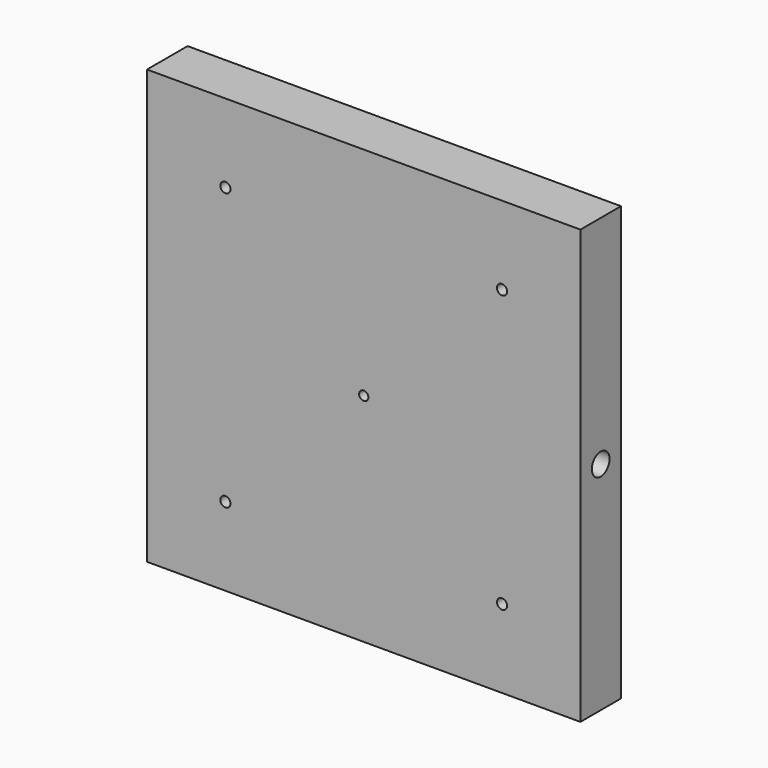
from build123d import *

# Parameters (mm, degrees)
F0_W     = 470
F0_H     = 470
F0_R     = 5.5
F0_R_2   = 5
F1_DEPTH = 55
F2_D     = 14
F2_DEPTH = 24
F2_TIP   = 4.2060243332
F3_R     = 100
F3_R_2   = 5
F4_DEPTH = 2
F5_R     = 12
F6_DEPTH = 30
F7_R     = 12
F8_DEPTH = 30


with BuildPart() as f1:
    # F0 (on Front) → F1 (new body)
    with BuildSketch(Plane.XZ):
        Rectangle(F0_W, F0_H)
        with Locations((-150, -150)):
            Circle(F0_R, mode=Mode.SUBTRACT)
        with Locations((150, -150)):
            Circle(F0_R, mode=Mode.SUBTRACT)
        with Locations((-150, 150)):
            Circle(F0_R, mode=Mode.SUBTRACT)
        Circle(F0_R_2, mode=Mode.SUBTRACT)
        with Locations((150, 150)):
            Circle(F0_R, mode=Mode.SUBTRACT)
    extrude(amount=F1_DEPTH)

    # F2
    with Locations(Plane(origin=(0, 0, 0), x_dir=(1, 0, 0), z_dir=(0, 1, 0))):
        with Locations((53.033008589, -53.033008589), (-53.033008589, -53.033008589), (-53.033008589, 53.033008589), (53.033008589, 53.033008589)):
            Hole(F2_D / 2, depth=F2_DEPTH)
            with Locations((0, 0, -(F2_DEPTH + F2_TIP / 2))):  # 118° drill point
                Cone(0, F2_D / 2, F2_TIP, mode=Mode.SUBTRACT)

    # F3 (on face) → F4 (cut)
    with BuildSketch(Plane.XZ):
        Circle(F3_R)
        Circle(F3_R_2, mode=Mode.SUBTRACT)
    extrude(amount=F4_DEPTH, mode=Mode.SUBTRACT)

    # F5 (on face) → F6 (cut)
    with BuildSketch(Plane.YZ.offset(235)):
        with Locations((-27.5, 0)):
            Circle(F5_R)
    extrude(amount=-F6_DEPTH, mode=Mode.SUBTRACT)

    # F7 (on face) → F8 (cut)
    with BuildSketch(Plane(origin=(-235, 0, 0), x_dir=(0, -1, 0), z_dir=(-1, 0, 0))):
        with Locations((27.5, 0)):
            Circle(F7_R)
    extrude(amount=-F8_DEPTH, mode=Mode.SUBTRACT)


solid = f1.part
